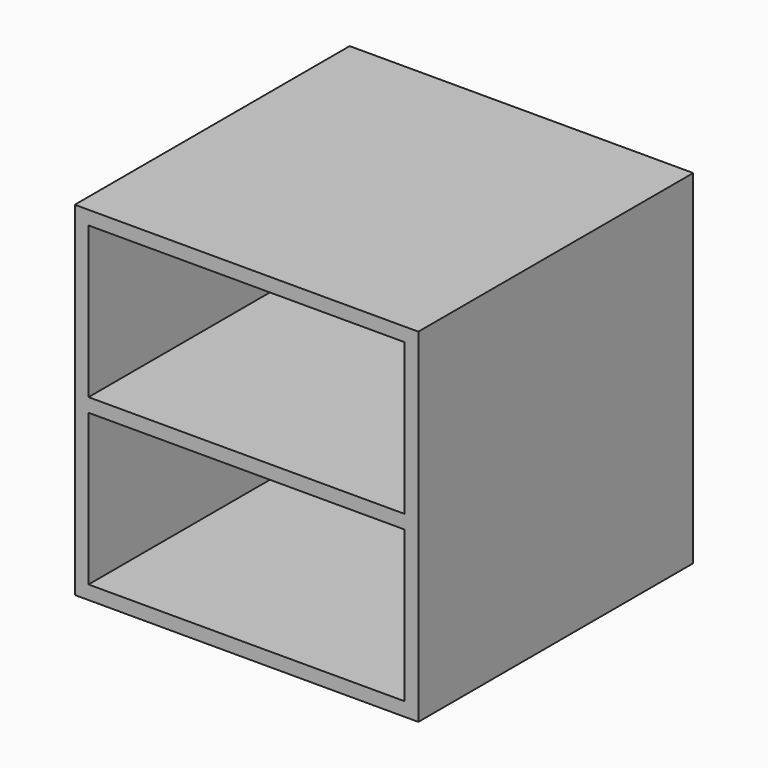
from build123d import *

# Parameters (mm, degrees)
F0_W     = 300
F0_H     = 300
F1_DEPTH = 300
F2_T     = -12
F3_W     = 276
F3_H     = 12
F4_DEPTH = 295


with BuildPart() as f1:
    # F0 (on Front) → F1 (new body)
    with BuildSketch(Plane.XZ):
        Rectangle(F0_W, F0_H)
    extrude(amount=-F1_DEPTH)

    # F2
    f2_openings = [f1.faces().sort_by_distance(p)[0] for p in [
        (0, 0, 0),
    ]]
    offset(amount=F2_T, openings=f2_openings)

    # F3 (on face) → F4 (join)
    with BuildSketch(Plane.XZ):
        Rectangle(F3_W, F3_H)
    extrude(amount=-F4_DEPTH)


solid = f1.part
